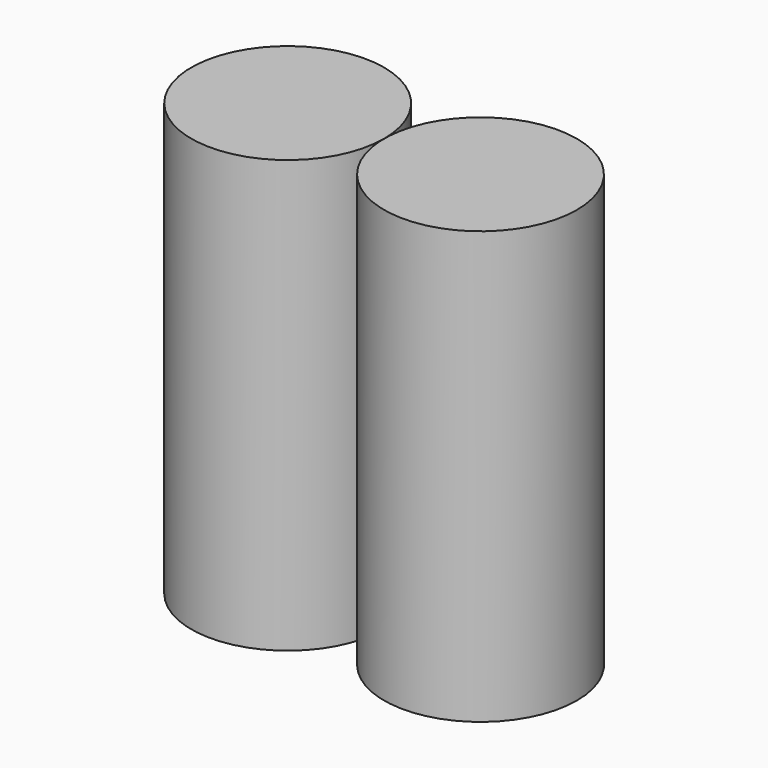
from build123d import *

# Parameters (mm, degrees)
F1_R     = 158.75
F2_DEPTH = 711.2
F4_R     = 158.75
F5_DEPTH = 711.2


with BuildPart() as f2:
    # F1 (on face) → F2 (new body)
    with BuildSketch(Plane.XY):
        Circle(F1_R)
    extrude(amount=-F2_DEPTH)

    # F3: F2 across plane


with BuildPart() as f2_1:
    add(f2.part)
    add(f2.part.mirror(Plane.YZ))


with BuildPart() as f5:
    # F4 (on face) → F5 (new body)
    with BuildSketch(Plane.XY):
        with Locations((317.5, 0)):
            Circle(F4_R)
    extrude(amount=-F5_DEPTH)


solid = Compound([f2_1.part, f5.part])
